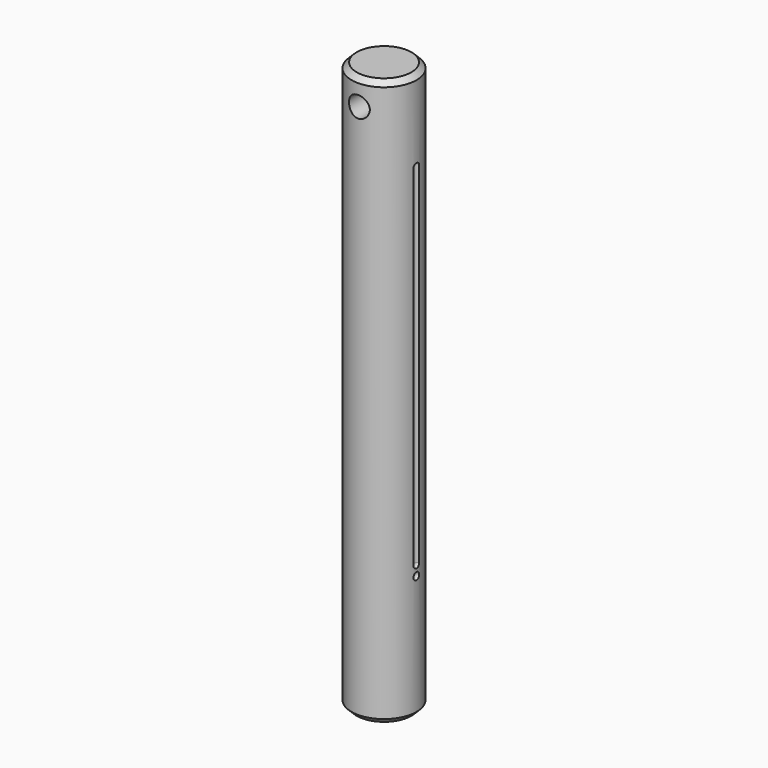
from build123d import *

# Parameters (mm, degrees)
F0_R     = 12.5
F1_DEPTH = 218
F2_SIZE  = 2
F4_R     = 4
F5_DEPTH = 25.001
F8_DEPTH = 135


with BuildPart() as f1:
    # F0 (on Top) → F1 (new body)
    with BuildSketch(Plane.XY):
        Circle(F0_R)
    extrude(amount=F1_DEPTH)

    # F2
    f2_edges = [f1.edges().sort_by_distance(p)[0] for p in [
        (-12.5, 0, 0),
        (-12.5, 0, 218),
    ]]
    chamfer(f2_edges, length=F2_SIZE)

    # F4 (on offset) → F5 (cut, through all)
    with BuildSketch(Plane.XZ.offset(-12.5)):
        with Locations((0, 208)):
            Circle(F4_R)
    extrude(amount=F5_DEPTH, mode=Mode.SUBTRACT)

    # F7 (on offset) → F8 (cut)
    with BuildSketch(Plane.XY.offset(52)):
        with BuildLine():
            Line((13, -1.5), (13, 1.5))
            ThreePointArc((13, 1.5), (11.5, 0), (13, -1.5))
        make_face()
    extrude(amount=F8_DEPTH, mode=Mode.SUBTRACT)


with BuildPart() as f11:
    # F10 (on offset) → F11 (revolve)
    with BuildSketch(Plane.XY.offset(48)):
        with BuildLine():
            Line((13, -1.5), (13, 1.5))
            ThreePointArc((13, 1.5), (11.5, 0), (13, -1.5))
        make_face()
    revolve(axis=Axis((13, 0, 48), (0, -1, 0)))


with BuildPart() as f1_1:
    add(f1.part)

    # F12: cut F11
    add(f11.part, mode=Mode.SUBTRACT)

    # F7 (on offset) → F13 (revolve, cut)
    with BuildSketch(Plane.XY.offset(52)):
        with BuildLine():
            Line((13, -1.5), (13, 1.5))
            ThreePointArc((13, 1.5), (11.5, 0), (13, -1.5))
        make_face()
    revolve(axis=Axis((13, 0, 52), (0, -1, 0)), mode=Mode.SUBTRACT)

    # F14 (on face) → F15 (revolve, cut)
    with BuildSketch(Plane(origin=(0, 0, 187), x_dir=(1, 0, 0), z_dir=(0, 0, -1))):
        with BuildLine():
            ThreePointArc((12.423077, 1.384615), (11.5, 0), (12.423077, -1.384615))
            Line((12.423077, -1.384615), (12.423077, 1.384615))
        make_face()
    revolve(axis=Axis((12.423077, 0, 187), (0, 1, 0)), mode=Mode.SUBTRACT)


solid = f1_1.part
